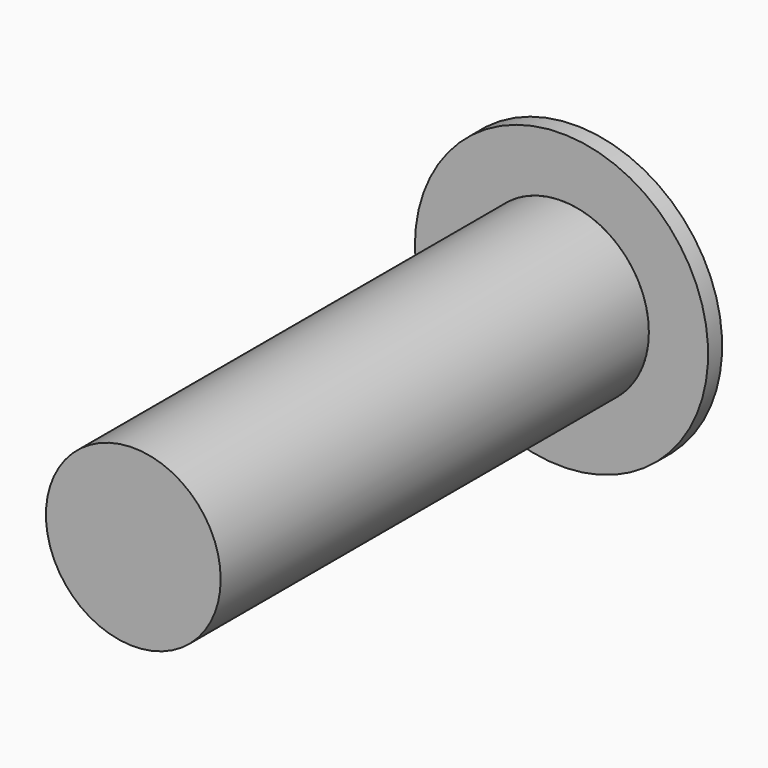
from build123d import *

# Parameters (mm, degrees)
F0_R     = 14.95
F1_DEPTH = 91.57556
F2_R     = 25.08772
F2_R_2   = 14.95
F3_DEPTH = 3


with BuildPart() as f1:
    # F0 (on Front) → F1 (new body)
    with BuildSketch(Plane.XZ):
        Circle(F0_R)
    extrude(amount=F1_DEPTH)


with BuildPart() as f3:
    # F2 (on face) → F3 (new body)
    with BuildSketch(Plane(origin=(0, 0, 0), x_dir=(-1, 0, 0), z_dir=(0, 1, 0))):
        Circle(F2_R)
        Circle(F2_R_2, mode=Mode.SUBTRACT)
    extrude(amount=F3_DEPTH)


solid = Compound([f1.part, f3.part])
